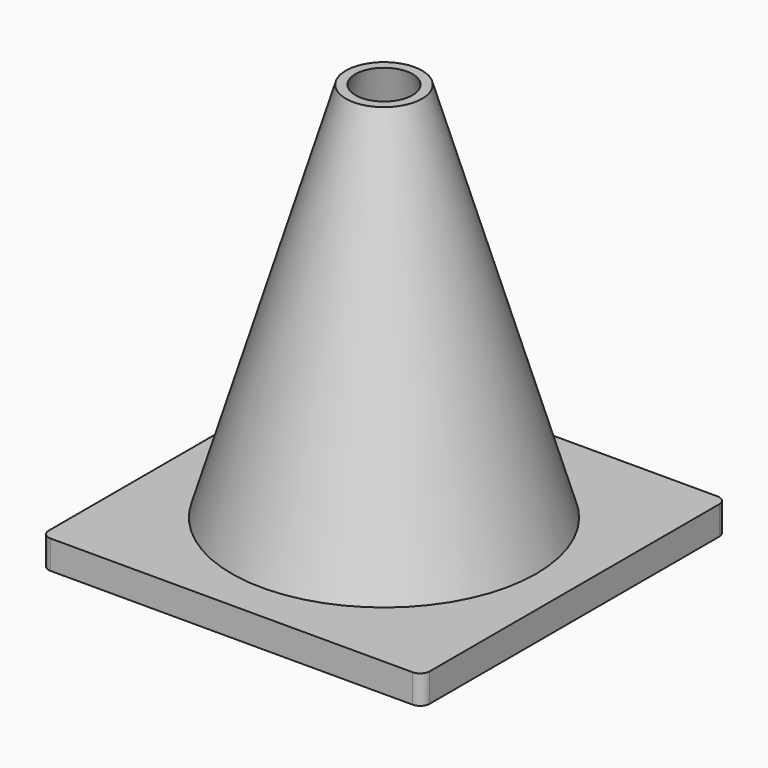
from build123d import *

# Parameters (mm, degrees)
BOX_W     = 40
BOX_H     = 40
BOX_DEPTH = 3
FILLET_R  = 1


with BuildPart() as cone001:
    # Cone001 → Cone001 (revolve)
    with BuildSketch(Plane(origin=(20, 20, 0), x_dir=(1, 0, 0), z_dir=(0, -1, 0))):
        Polygon((0, 0), (15, 0), (3, 43), (0, 43), align=None)
    revolve(axis=Axis((20, 20, 0), (0, 0, 1)))


with BuildPart() as cut:
    # Cone → Cone (revolve)
    with BuildSketch(Plane(origin=(20, 20, 3), x_dir=(1, 0, 0), z_dir=(0, -1, 0))):
        Polygon((0, 0), (16, 0), (4, 40), (0, 40), align=None)
    revolve(axis=Axis((20, 20, 3), (0, 0, 1)))

    # Cut: cut Cone001
    add(cone001.part, mode=Mode.SUBTRACT)


with BuildPart() as cone002:
    # Cone002 → Cone002 (revolve)
    with BuildSketch(Plane(origin=(20, 20, 0), x_dir=(1, 0, 0), z_dir=(0, -1, 0))):
        Polygon((0, 0), (15, 0), (3, 43), (0, 43), align=None)
    revolve(axis=Axis((20, 20, 0), (0, 0, 1)))


with BuildPart() as fusion:
    # Box → Box (new body)
    with BuildSketch(Plane.XY):
        with Locations((20, 20)):
            Rectangle(BOX_W, BOX_H)
    extrude(amount=BOX_DEPTH)

    # Fillet
    fillet_edges = [fusion.edges().sort_by_distance(p)[0] for p in [
        (0, 0, 1.5),
        (0, 40, 1.5),
        (40, 0, 1.5),
        (40, 40, 1.5),
    ]]
    fillet(fillet_edges, radius=FILLET_R)

    # Cut001: cut Cone002
    add(cone002.part, mode=Mode.SUBTRACT)

    # Fusion: union Cut
    add(cut.part)


solid = fusion.part
